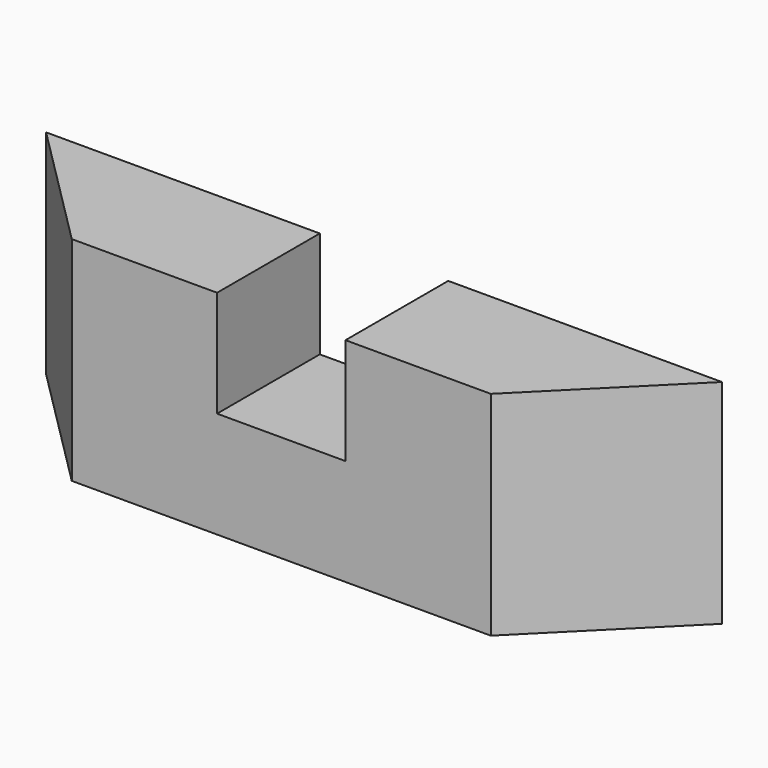
from build123d import *

# Parameters (mm, degrees)
F1_DEPTH = 63
F2_W     = 38
F2_H     = 31.5
F3_DEPTH = 38.001


with BuildPart() as f1:
    # F0 (on Top) → F1 (new body)
    with BuildSketch(Plane.XY):
        Polygon((200, 0), (0, 0), (38, -38), (162, -38), align=None)
    extrude(amount=F1_DEPTH)

    # F2 (on face) → F3 (cut, through all)
    with BuildSketch(Plane(origin=(0, 0, 0), x_dir=(-1, 0, 0), z_dir=(0, 1, 0))):
        with Locations((-100, 47.25)):
            Rectangle(F2_W, F2_H)
    extrude(amount=-F3_DEPTH, mode=Mode.SUBTRACT)


solid = f1.part
